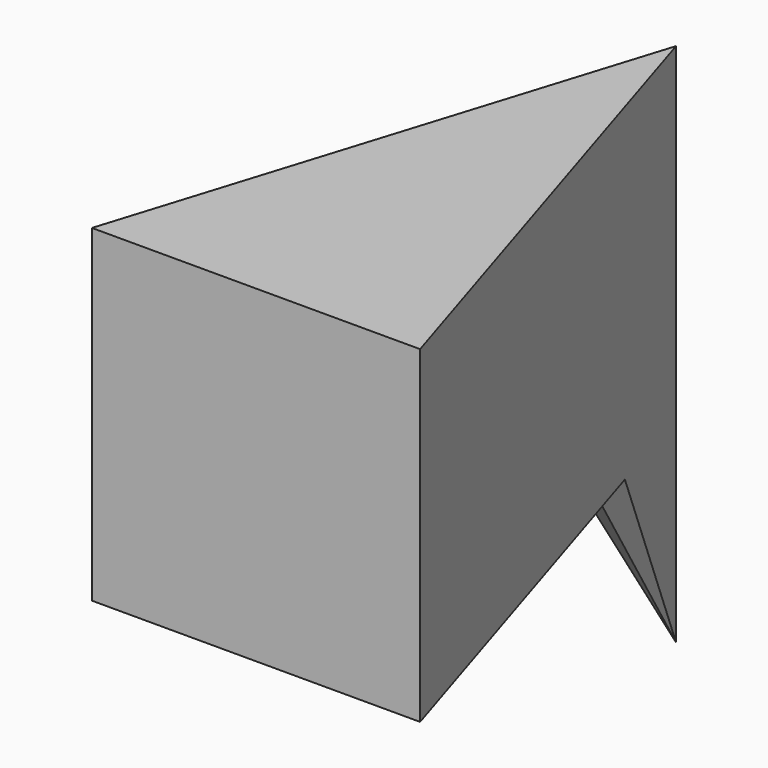
from build123d import *

# Parameters (mm, degrees)
F1_DEPTH = 12.7
F3_DEPTH = 7.62
F5_DEPTH = 25.4
F7_DEPTH = 25.4


with BuildPart() as f1:
    # F0 (on Top) → F1 (new body)
    with BuildSketch(Plane.XY):
        Polygon((0.824413, 28.39133), (-5.525587, 8.07133), (7.174413, 8.07133), align=None)
    extrude(amount=F1_DEPTH)

    # F2 (on face) → F3 (join)
    with BuildSketch(Plane(origin=(0, 0, 0), x_dir=(1, 0, 0), z_dir=(0, 0, -1))):
        Polygon((2.094413, -24.32733), (-0.445587, -24.32733), (0.824413, -28.39133), align=None)
    extrude(amount=F3_DEPTH)

    # F4 (on face) → F5 (cut)
    with BuildSketch(Plane(origin=(-7.331874, 2.291211, 0), x_dir=(-0.298275, -0.95448, 0), z_dir=(-0.95448, 0.298275, 0))):
        Polygon((-23.087042, -7.62), (-23.087042, 0), (-27.344858, -7.62), align=None)
    extrude(amount=-F5_DEPTH, mode=Mode.SUBTRACT)

    # F6 (on face) → F7 (cut)
    with BuildSketch(Plane(origin=(8.834008, 2.760627, 0), x_dir=(-0.298275, 0.95448, 0), z_dir=(0.95448, 0.298275, 0))):
        Polygon((26.853055, -7.62), (22.595239, 0), (22.595239, -1.355872), align=None)
    extrude(amount=-F7_DEPTH, mode=Mode.SUBTRACT)


solid = f1.part
